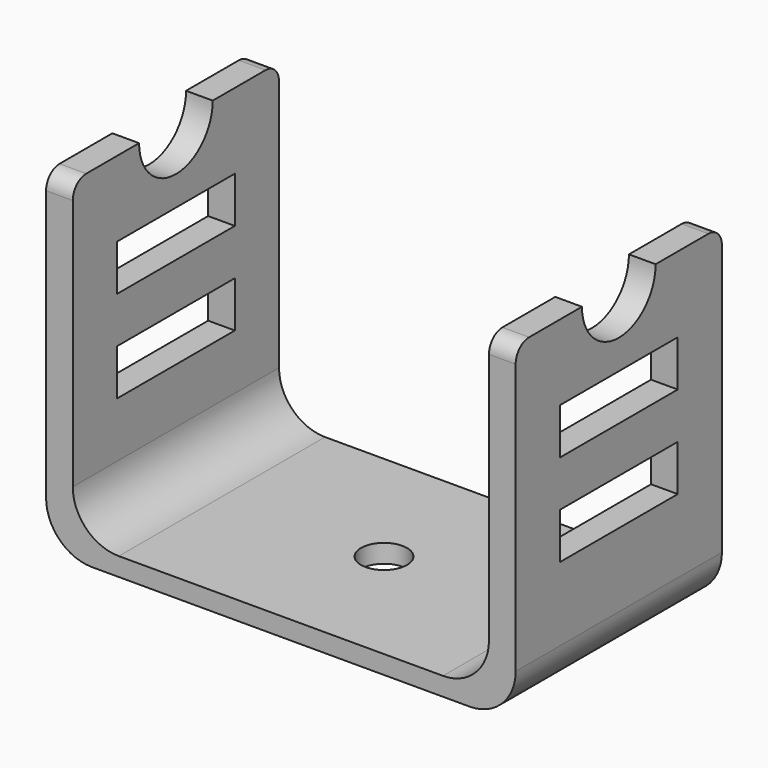
from build123d import *

# Parameters (mm, degrees)
F0_W     = 16
F0_H     = 5
F1_DEPTH = 25.5
F2_W     = 45.2
F2_H     = 42.82105
F3_DEPTH = 34.2
F4_R     = 2.5
F5_DEPTH = 2.001
F6_R     = 5


with BuildPart() as f1:
    # F0 (on Right) → F1 (new body, symmetric)
    with BuildSketch(Plane.YZ):
        with BuildLine():
            Line((-14, 34.369719), (-14, 0))
            Line((-14, 0), (14, 0))
            Line((14, 0), (14, 34.369719))
            ThreePointArc((14, 34.369719), (13.463923, 35.663923), (12.169719, 36.2))
            Line((12.169719, 36.2), (5, 36.2))
            ThreePointArc((5, 36.2), (0, 31.2), (-5, 36.2))
            Line((-5, 36.2), (-12.169719, 36.2))
            ThreePointArc((-12.169719, 36.2), (-13.463923, 35.663923), (-14, 34.369719))
        make_face()
        with Locations((0, 15.5)):
            Rectangle(F0_W, F0_H, mode=Mode.SUBTRACT)
        with Locations((0, 25.5)):
            Rectangle(F0_W, F0_H, mode=Mode.SUBTRACT)
    extrude(amount=F1_DEPTH, both=True)

    # F2 (on face) → F3 (cut)
    with BuildSketch(Plane.XY.offset(36.2)):
        with Locations((0, 0.389209)):
            Rectangle(F2_W, F2_H)
    extrude(amount=-F3_DEPTH, mode=Mode.SUBTRACT)

    # F4 (on face) → F5 (cut, through all)
    with BuildSketch(Plane.XY.offset(2)):
        Circle(F4_R)
    extrude(amount=-F5_DEPTH, mode=Mode.SUBTRACT)

    # F6
    f6_edges = [f1.edges().sort_by_distance(p)[0] for p in [
        (25.5, 0, 0),
        (22.6, 0, 2),
        (-22.6, 0, 2),
        (-25.5, 0, 0),
    ]]
    fillet(f6_edges, radius=F6_R)


solid = f1.part
